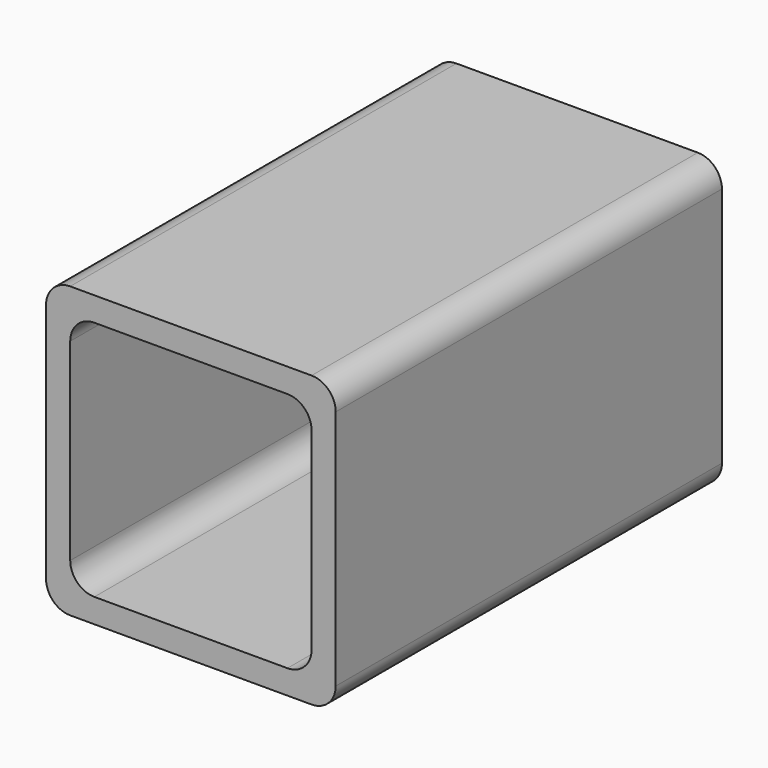
from build123d import *

# Parameters (mm, degrees)
F1_DEPTH = 127


with BuildPart() as f1:
    # F0 (on Front) → F1 (new body)
    with BuildSketch(Plane.XZ):
        with BuildLine():
            ThreePointArc((38.1, 31.75), (36.240128, 36.240128), (31.75, 38.1))
            Line((31.75, 38.1), (-31.75, 38.1))
            ThreePointArc((-31.75, 38.1), (-36.240128, 36.240128), (-38.1, 31.75))
            Line((-38.1, 31.75), (-38.1, -31.75))
            ThreePointArc((-38.1, -31.75), (-36.240128, -36.240128), (-31.75, -38.1))
            Line((-31.75, -38.1), (31.75, -38.1))
            ThreePointArc((31.75, -38.1), (36.240128, -36.240128), (38.1, -31.75))
            Line((38.1, -31.75), (38.1, 31.75))
        make_face()
        with BuildLine():
            Line((-31.75, -25.4), (-31.75, 25.4))
            ThreePointArc((-31.75, 25.4), (-29.890128, 29.890128), (-25.4, 31.75))
            Line((-25.4, 31.75), (25.4, 31.75))
            ThreePointArc((25.4, 31.75), (29.890128, 29.890128), (31.75, 25.4))
            Line((31.75, 25.4), (31.75, -25.4))
            ThreePointArc((31.75, -25.4), (29.890128, -29.890128), (25.4, -31.75))
            Line((25.4, -31.75), (-25.4, -31.75))
            ThreePointArc((-25.4, -31.75), (-29.890128, -29.890128), (-31.75, -25.4))
        make_face(mode=Mode.SUBTRACT)
    extrude(amount=F1_DEPTH)


solid = f1.part
